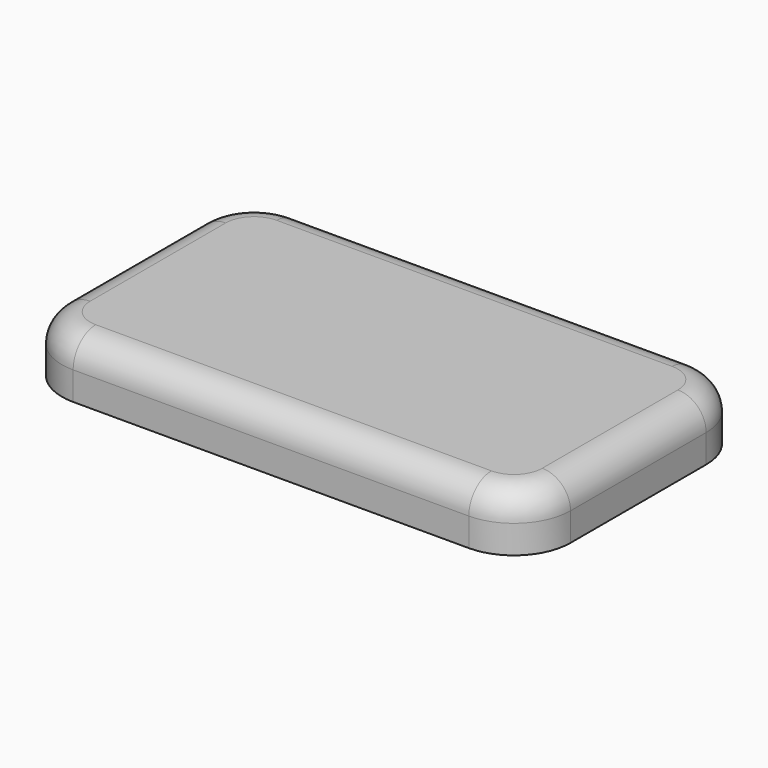
from build123d import *

# Parameters (mm, degrees)
F1_DEPTH = 5.08
F2_T     = -1.27
F3_R     = 2.54


with BuildPart() as f1:
    # F0 (on Top) → F1 (new body)
    with BuildSketch(Plane.XY):
        with BuildLine():
            ThreePointArc((22.86, 7.62), (21.372102, 11.212102), (17.78, 12.7))
            Line((17.78, 12.7), (-17.78, 12.7))
            ThreePointArc((-17.78, 12.7), (-21.372102, 11.212102), (-22.86, 7.62))
            Line((-22.86, 7.62), (-22.86, -7.62))
            ThreePointArc((-22.86, -7.62), (-21.372102, -11.212102), (-17.78, -12.7))
            Line((-17.78, -12.7), (17.78, -12.7))
            ThreePointArc((17.78, -12.7), (21.372102, -11.212102), (22.86, -7.62))
            Line((22.86, -7.62), (22.86, 7.62))
        make_face()
    extrude(amount=F1_DEPTH)

    # F2
    f2_openings = [f1.faces().sort_by_distance(p)[0] for p in [
        (0, 0, 0),
    ]]
    offset(amount=F2_T, openings=f2_openings)

    # F3
    f3_edges = [f1.edges().sort_by_distance(p)[0] for p in [
        (0, 12.7, 5.08),
    ]]
    fillet(f3_edges, radius=F3_R)


solid = f1.part
